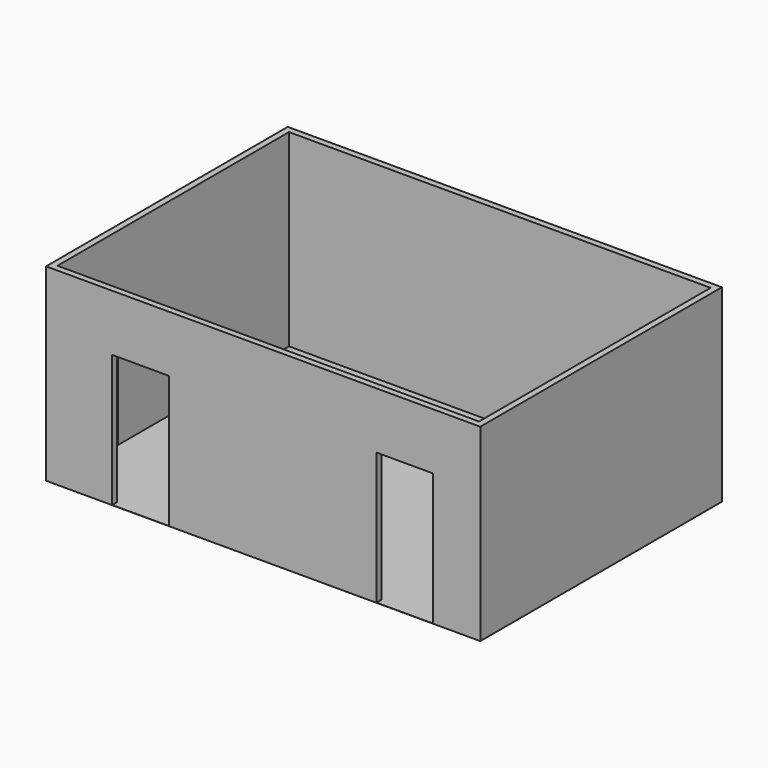
from build123d import *

# Parameters (mm, degrees)
F0_W     = 7010.4
F0_H     = 4876.8
F1_DEPTH = 3048
F2_T     = -101.6
F3_W     = 914.4
F3_H     = 2133.6
F4_DEPTH = 101.6
F5_DEPTH = 99.06
F6_W     = 1066.8
F6_H     = 2133.6
F7_DEPTH = 101.6


with BuildPart() as f1:
    # F0 (on Top) → F1 (new body)
    with BuildSketch(Plane.XY):
        Rectangle(F0_W, F0_H)
    extrude(amount=F1_DEPTH)

    # F2
    f2_openings = [f1.faces().sort_by_distance(p)[0] for p in [
        (0, 0, 3048),
    ]]
    offset(amount=F2_T, openings=f2_openings)

    # F3 (on face) → F4 (cut)
    with BuildSketch(Plane.XZ.offset(2438.4)):
        with Locations((-1981.2, 1069.34)):
            Rectangle(F3_W, F3_H)
        with Locations((2286, 1069.34)):
            Rectangle(F3_W, F3_H)
    extrude(amount=-F4_DEPTH, mode=Mode.SUBTRACT)

    # F5 (cut): a face of the model
    f5_faces = [f1.faces().sort_by_distance(p)[0] for p in [
        (0, 0, 101.6),
    ]]
    extrude(f5_faces, amount=-F5_DEPTH, mode=Mode.SUBTRACT)

    # F6 (on face) → F7 (cut)
    with BuildSketch(Plane(origin=(-3505.2, 0, 0), x_dir=(0, -1, 0), z_dir=(-1, 0, 0))):
        with Locations((1651, 1069.34)):
            Rectangle(F6_W, F6_H)
    extrude(amount=-F7_DEPTH, mode=Mode.SUBTRACT)


solid = f1.part
